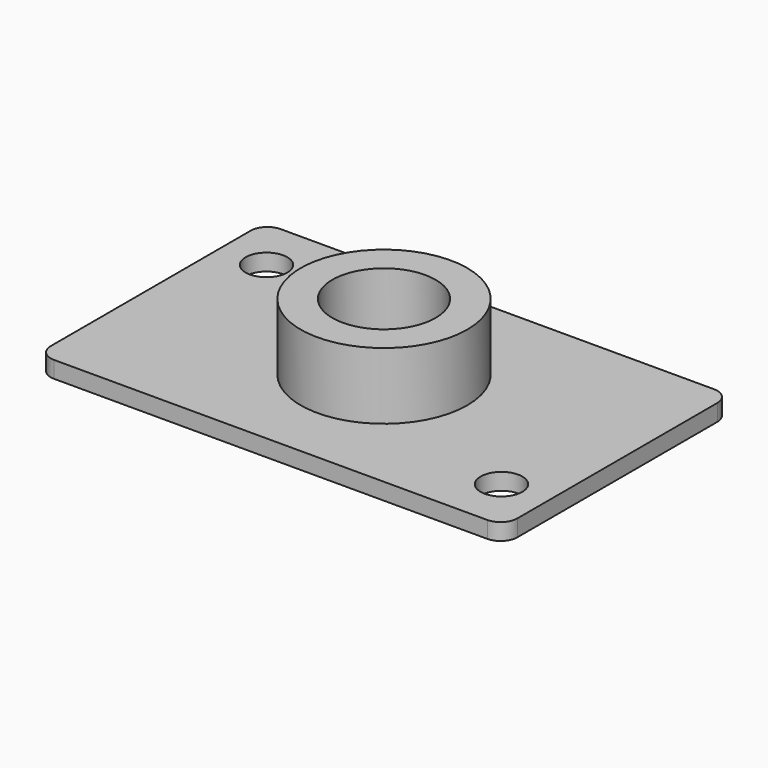
from build123d import *

# Parameters (mm, degrees)
SKETCH_W        = 14
SKETCH_H        = 8.5
PAD_DEPTH       = 0.5
SKETCH001_R     = 0.625
POCKET_DEPTH    = 0.501
SKETCH002_R     = 2.5
PAD001_DEPTH    = 2
SKETCH003_R     = 1.55
POCKET001_DEPTH = 2.501
FILLET_R        = 0.5


with BuildPart() as part:
    # Sketch → Pad (new body)
    with BuildSketch(Plane.XY):
        Rectangle(SKETCH_W, SKETCH_H)
    extrude(amount=PAD_DEPTH)

    # Sketch001 (on Face6 of Pad) → Pocket (cut, through all)
    with BuildSketch(Plane.XY.offset(0.5)):
        with Locations((-5.625, 2.625)):
            Circle(SKETCH001_R)
        with Locations((5.625, -2.625)):
            Circle(SKETCH001_R)
    extrude(amount=-POCKET_DEPTH, mode=Mode.SUBTRACT)

    # Sketch002 (on Face5 of Pocket) → Pad001 (join)
    with BuildSketch(Plane.XY.offset(0.5)):
        Circle(SKETCH002_R)
    extrude(amount=PAD001_DEPTH)

    # Sketch003 (on Face10 of Pad001) → Pocket001 (cut, through all)
    with BuildSketch(Plane.XY.offset(2.5)):
        Circle(SKETCH003_R)
    extrude(amount=-POCKET001_DEPTH, mode=Mode.SUBTRACT)

    # Fillet
    fillet_edges = [part.edges().sort_by_distance(p)[0] for p in [
        (-7, -4.25, 0.25),
        (7, -4.25, 0.25),
        (7, 4.25, 0.25),
        (-7, 4.25, 0.25),
    ]]
    fillet(fillet_edges, radius=FILLET_R)


solid = part.part
